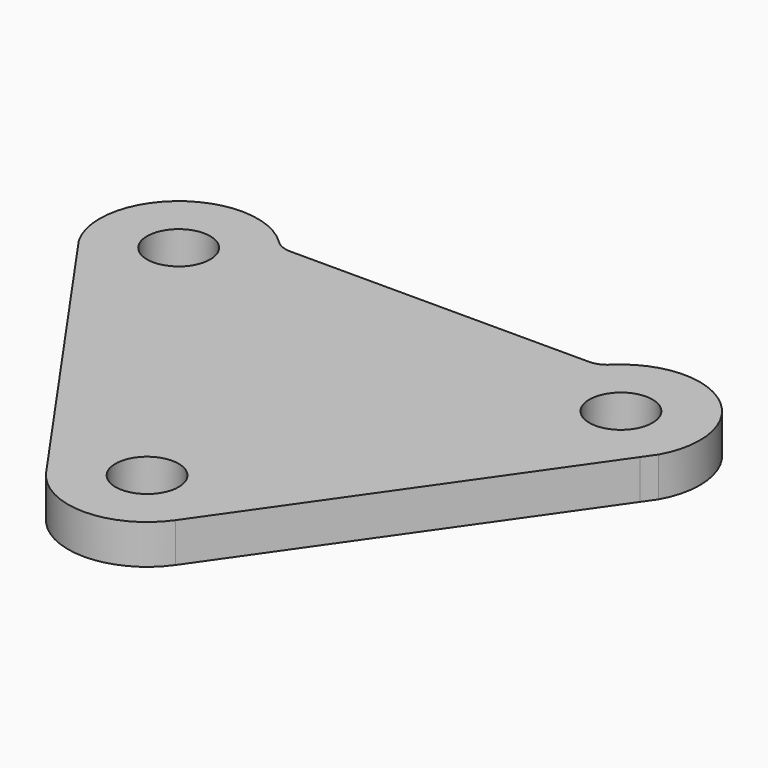
from build123d import *

# Parameters (mm, degrees)
F0_R     = 6.35
F1_DEPTH = 7.9375


with BuildPart() as f1:
    # F0 (on Top) → F1 (new body)
    with BuildSketch(Plane.XY):
        with BuildLine():
            Line((-56.530945, 53.201145), (-13.013914, -9.091406))
            ThreePointArc((-13.013914, -9.091406), (0, -15.875), (13.013914, -9.091406))
            Line((13.013914, -9.091406), (56.530945, 53.201145))
            Line((56.530945, 53.201145), (58.276649, 55.700037))
            ThreePointArc((58.276649, 55.700037), (54.115532, 76.093376), (33.339815, 74.839286))
            ThreePointArc((33.339815, 74.839286), (31.806815, 73.831853), (30.006759, 73.478571))
            Line((30.006759, 73.478571), (-30.006759, 73.478571))
            ThreePointArc((-30.006759, 73.478571), (-31.806815, 73.831853), (-33.339815, 74.839286))
            ThreePointArc((-33.339815, 74.839286), (-54.115532, 76.093376), (-58.276649, 55.700037))
            Line((-58.276649, 55.700037), (-56.530945, 53.201145))
        make_face()
        Circle(F0_R, mode=Mode.SUBTRACT)
        with Locations((-44.45, 63.5)):
            Circle(F0_R, mode=Mode.SUBTRACT)
        with Locations((44.45, 63.5)):
            Circle(F0_R, mode=Mode.SUBTRACT)
    extrude(amount=F1_DEPTH)


solid = f1.part
